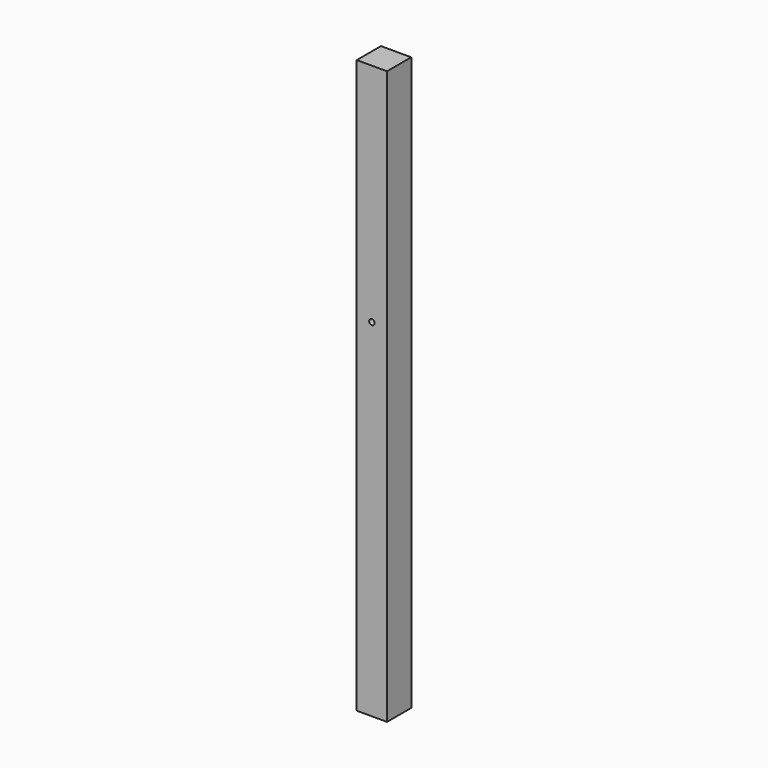
from build123d import *

# Parameters (mm, degrees)
F0_W     = 139.7
F0_H     = 2641.6
F0_R     = 12.7
F1_DEPTH = 139.7
F2_R     = 12.7
F3_DEPTH = 25.4


with BuildPart() as f1:
    # F0 (on Front) → F1 (new body)
    with BuildSketch(Plane.XZ):
        with Locations((-98.204423, 1250.896522)):
            Rectangle(F0_W, F0_H)
        with Locations((-98.204423, 1530.296522)):
            Circle(F0_R, mode=Mode.SUBTRACT)
    extrude(amount=F1_DEPTH)

    # F2 (on face) → F3 (cut)
    with BuildSketch(Plane(origin=(0, 0, -69.903478), x_dir=(1, 0, 0), z_dir=(0, 0, -1))):
        with Locations((-98.204423, 69.85)):
            Circle(F2_R)
    extrude(amount=-F3_DEPTH, mode=Mode.SUBTRACT)


solid = f1.part
